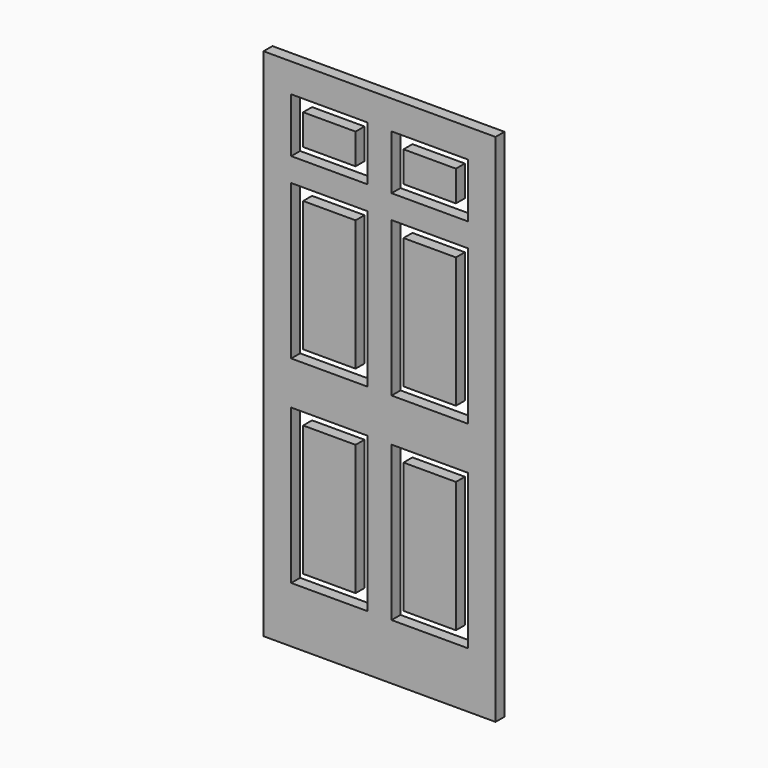
from build123d import *

# Parameters (mm, degrees)
F0_W          = 923.925
F0_H          = 2051.05
F0_W_2        = 303.784
F0_H_2        = 615.188
F0_H_3        = 216.916
F1_DEPTH      = 22.225
F1_DEPTH_BACK = 22.225
F2_W          = 208.788
F2_H          = 121.92
F2_H_2        = 520.192
F3_DEPTH      = 22.225
F3_DEPTH_BACK = 22.225


with BuildPart() as f1:
    # F0 (on Front) → F1 (new body, two sides)
    with BuildSketch(Plane.XZ) as f1_sk:
        with Locations((461.9625, 1025.525)):
            Rectangle(F0_W, F0_H)
        with Locations((262.128, 530.098)):
            Rectangle(F0_W_2, F0_H_2, mode=Mode.SUBTRACT)
        with Locations((661.797, 530.098)):
            Rectangle(F0_W_2, F0_H_2, mode=Mode.SUBTRACT)
        with Locations((262.128, 1317.244)):
            Rectangle(F0_W_2, F0_H_2, mode=Mode.SUBTRACT)
        with Locations((262.128, 1827.53)):
            Rectangle(F0_W_2, F0_H_3, mode=Mode.SUBTRACT)
        with Locations((661.797, 1317.244)):
            Rectangle(F0_W_2, F0_H_2, mode=Mode.SUBTRACT)
        with Locations((661.797, 1827.53)):
            Rectangle(F0_W_2, F0_H_3, mode=Mode.SUBTRACT)
    extrude(amount=F1_DEPTH)
    extrude(f1_sk.sketch, amount=-F1_DEPTH_BACK)


with BuildPart() as f3:
    # F2 (on Front) → F3 (new body, two sides)
    with BuildSketch(Plane.XZ) as f3_sk:
        with Locations((262.128, 1827.53)):
            Rectangle(F2_W, F2_H)
        with Locations((661.797, 1827.53)):
            Rectangle(F2_W, F2_H)
        with Locations((661.797, 1317.244)):
            Rectangle(F2_W, F2_H_2)
        with Locations((262.128, 1317.244)):
            Rectangle(F2_W, F2_H_2)
        with Locations((262.128, 530.098)):
            Rectangle(F2_W, F2_H_2)
        with Locations((661.797, 530.098)):
            Rectangle(F2_W, F2_H_2)
    extrude(amount=F3_DEPTH)
    extrude(f3_sk.sketch, amount=-F3_DEPTH_BACK)


solid = Compound([f1.part, f3.part])
